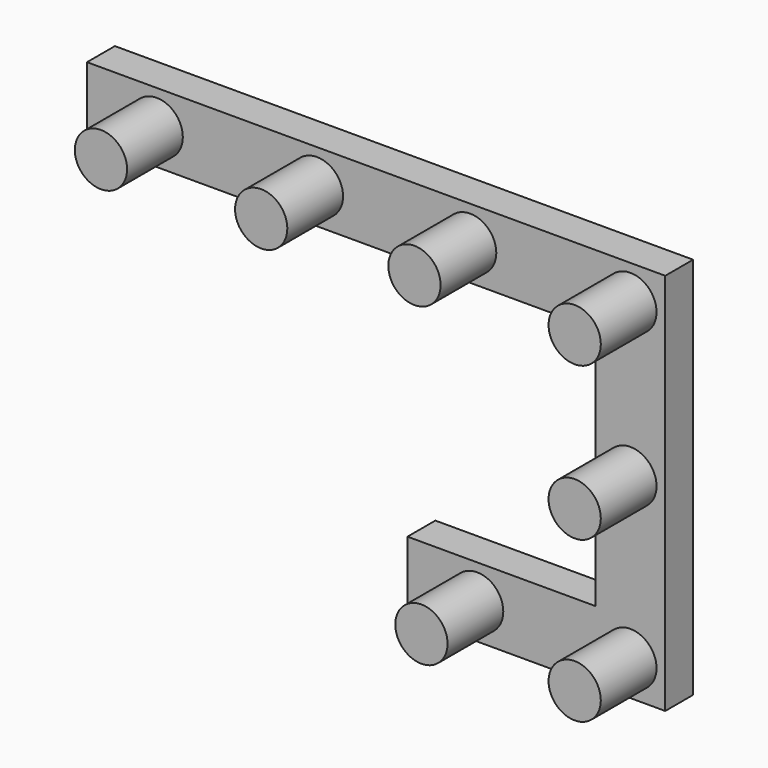
from build123d import *

# Parameters (mm, degrees)
F1_DEPTH = 5
F2_R     = 3.75
F3_DEPTH = 10


with BuildPart() as f1:
    # F0 (on Front) → F1 (new body)
    with BuildSketch(Plane.XZ):
        Polygon((0, 10), (0, 0), (37, 0), (37, 55), (-46, 55), (-46, 45), (27, 45), (27, 10), align=None)
    extrude(amount=F1_DEPTH)

    # F2 (on face) → F3 (join)
    with BuildSketch(Plane.XZ.offset(5)):
        with Locations((-36, 50)):
            Circle(F2_R)
        with Locations((-13, 50)):
            Circle(F2_R)
        with Locations((9, 50)):
            Circle(F2_R)
        with Locations((32, 50)):
            Circle(F2_R)
        with Locations((32, 28)):
            Circle(F2_R)
        with Locations((32, 5)):
            Circle(F2_R)
        with Locations((10, 5)):
            Circle(F2_R)
    extrude(amount=F3_DEPTH)


solid = f1.part
